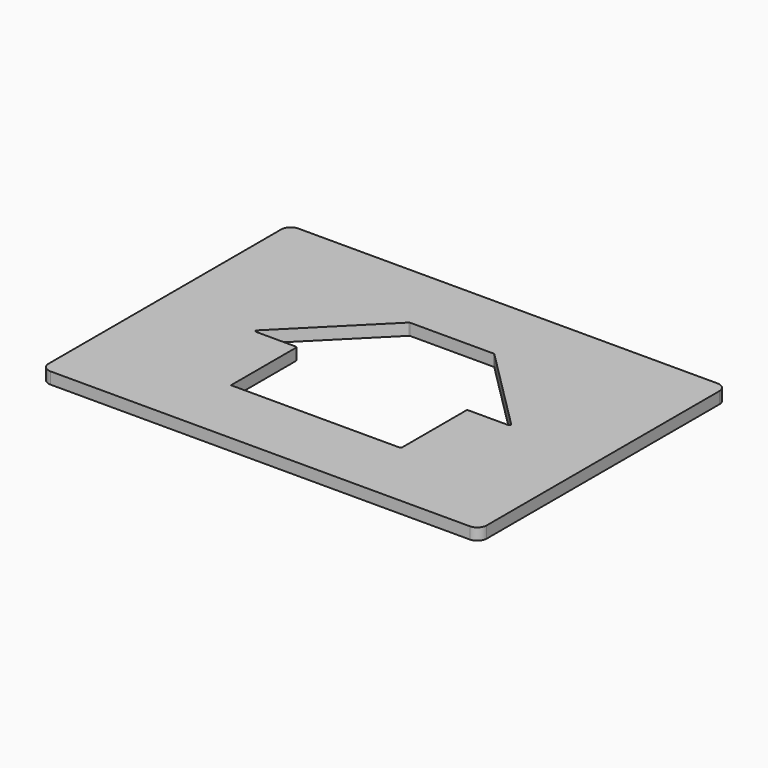
from build123d import *

# Parameters (mm, degrees)
F0_W     = 238.125
F0_H     = 168.275
F1_DEPTH = 6.35
F3_DEPTH = 6.351
F5_DEPTH = 6.351
F6_R     = 5.08


with BuildPart() as f1:
    # F0 (on Top) → F1 (new body)
    with BuildSketch(Plane.XY):
        Rectangle(F0_W, F0_H)
    extrude(amount=F1_DEPTH)

    # F2 (on face) → F3 (cut, through all)
    with BuildSketch(Plane.XY.offset(6.35)):
        Polygon((22.479, 44.901281), (0, 44.901281), (-22.479, 44.901281), (-67.380281, 0), (-44.958, 0), (-44.958, -44.958), (0, -44.958), (44.958, -44.958), (44.958, 0), (67.380281, 0), align=None)
    extrude(amount=-F3_DEPTH, mode=Mode.SUBTRACT)

    # F4 (on face) → F5 (cut, through all)
    with BuildSketch(Plane.XY.offset(6.35)):
        with BuildLine():
            ThreePointArc((-22.678899, 46.171281), (-22.980224, 46.111343), (-23.235675, 45.940656))
            Line((-23.235675, 45.940656), (-69.102156, 0.074176))
            ThreePointArc((-69.102156, 0.074176), (-69.272843, -0.783925), (-68.54538, -1.27))
            Line((-68.54538, -1.27), (-47.0154, -1.27))
            ThreePointArc((-47.0154, -1.27), (-46.458624, -1.500624), (-46.228, -2.0574))
            Line((-46.228, -2.0574), (-46.228, -46.228))
            Line((-46.228, -46.228), (45.4406, -46.228))
            ThreePointArc((45.4406, -46.228), (45.997376, -45.997376), (46.228, -45.4406))
            Line((46.228, -45.4406), (46.228, -1.27))
            Line((46.228, -1.27), (68.54538, -1.27))
            ThreePointArc((68.54538, -1.27), (69.272843, -0.783925), (69.102156, 0.074176))
            Line((69.102156, 0.074176), (23.235675, 45.940656))
            ThreePointArc((23.235675, 45.940656), (22.980224, 46.111343), (22.678899, 46.171281))
            Line((22.678899, 46.171281), (-22.678899, 46.171281))
        make_face()
    extrude(amount=-F5_DEPTH, mode=Mode.SUBTRACT)

    # F6
    f6_edges = [f1.edges().sort_by_distance(p)[0] for p in [
        (119.0625, 84.1375, 3.175),
        (119.0625, -84.1375, 3.175),
        (-119.0625, -84.1375, 3.175),
        (-119.0625, 84.1375, 3.175),
    ]]
    fillet(f6_edges, radius=F6_R)


solid = f1.part
